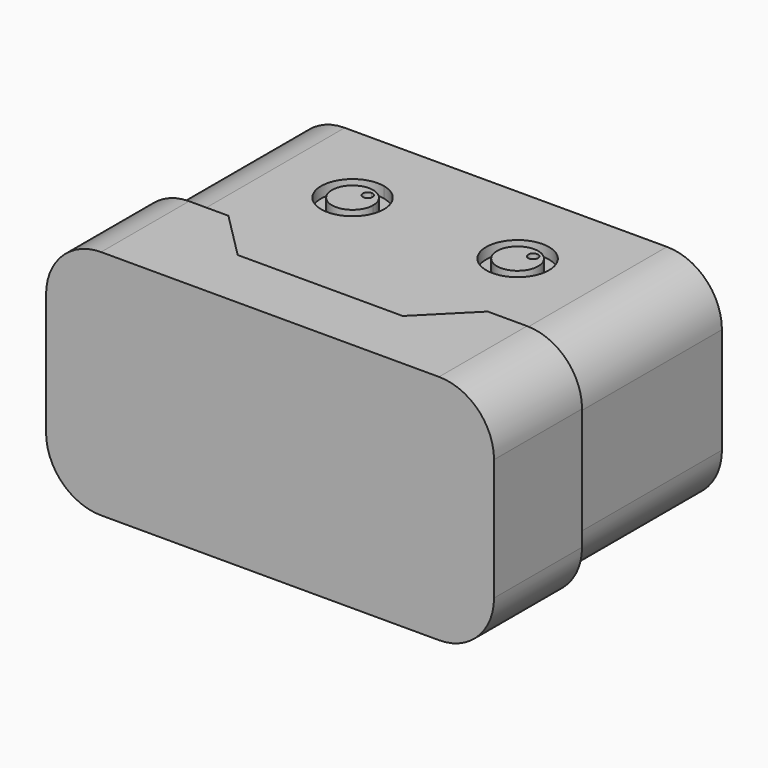
from build123d import *

# Parameters (mm, degrees)
F0_W      = 110
F0_H      = 75
F1_DEPTH  = 55
F3_DEPTH  = 2
F5_DEPTH  = 2
F6_W      = 112
F6_H      = 28
F7_DEPTH  = 2
F8_W      = 28
F8_H      = 59
F9_DEPTH  = 2
F10_R     = 14
F11_R     = 8
F11_R_2   = 5.25
F11_R_3   = 1.25
F12_DEPTH = 2.8


with BuildPart() as f1:
    # F0 (on Top) → F1 (new body)
    with BuildSketch(Plane.XY):
        Rectangle(F0_W, F0_H)
    extrude(amount=F1_DEPTH)

    # F2 (on face) → F3 (join)
    with BuildSketch(Plane.XY.offset(55)):
        Polygon((0, -21.541595), (0, -37.5), (55, -37.5), (55, -9.5), (33, -9.5), (21, -21.541595), align=None)
        Polygon((-33, -9.5), (-55, -9.5), (-55, -37.5), (0, -37.5), (0, -21.541595), (-21, -21.541595), align=None)
    extrude(amount=F3_DEPTH)

    # F4 (on face) → F5 (join)
    with BuildSketch(Plane.YZ.offset(55)):
        Polygon((-9.5, 0), (-9.5, 55), (-9.5, 57), (-37.5, 57), (-37.5, 0), align=None)
    extrude(amount=F5_DEPTH)

    # F6 (on face) → F7 (join)
    with BuildSketch(Plane(origin=(0, 0, 0), x_dir=(1, 0, 0), z_dir=(0, 0, -1))):
        with Locations((1, 23.5)):
            Rectangle(F6_W, F6_H)
    extrude(amount=F7_DEPTH)

    # F8 (on face) → F9 (join)
    with BuildSketch(Plane(origin=(-55, 0, 0), x_dir=(0, -1, 0), z_dir=(-1, 0, 0))):
        with Locations((23.5, 27.5)):
            Rectangle(F8_W, F8_H)
    extrude(amount=F9_DEPTH)

    # F10
    f10_edges = [f1.edges().sort_by_distance(p)[0] for p in [
        (-57, -23.5, 57),
        (-55, 14, 55),
        (57, -23.5, 57),
        (55, 14, 55),
        (57, -23.5, -2),
        (55, 14, 0),
        (-55, 14, 0),
        (-57, -23.5, -2),
    ]]
    fillet(f10_edges, radius=F10_R)

    # F11 (on face) → F12 (cut)
    with BuildSketch(Plane.XY.offset(55)):
        with BuildLine():
            ThreePointArc((-19.3, 22.817289), (-27.228965, 9.98004), (-13, 15))
            ThreePointArc((-13, 15), (-14.771035, 20.01996), (-19.3, 22.817289))
        make_face()
        with BuildLine():
            ThreePointArc((-15.75, 15), (-25.27127, 11.947337), (-19.3, 19.967142))
            ThreePointArc((-19.3, 19.967142), (-16.72873, 18.052663), (-15.75, 15))
        make_face(mode=Mode.SUBTRACT)
        with BuildLine():
            ThreePointArc((-18.05, 17.7), (-18.416117, 18.583883), (-19.3, 18.95))
            ThreePointArc((-19.3, 18.95), (-20.183883, 16.816117), (-18.05, 17.7))
        make_face()
        with Locations((21, 15)):
            Circle(F11_R)
        with Locations((21, 15)):
            Circle(F11_R_2, mode=Mode.SUBTRACT)
        with Locations((22.8, 17.7)):
            Circle(F11_R_3)
    extrude(amount=-F12_DEPTH, mode=Mode.SUBTRACT)

    # F13 (on Right) → F14 (revolve)
    with BuildSketch(Plane.YZ):
        with BuildLine():
            Line((37.5, 35), (37.5, 27.5))
            Line((37.5, 27.5), (61.365487, 27.5))
            Line((61.365487, 27.5), (66.5, 27.5))
            Line((66.5, 27.5), (70.365487, 27.5))
            ThreePointArc((70.365487, 27.5), (66.903148, 31.878728), (61.844038, 29.519393))
            ThreePointArc((61.844038, 29.519393), (61.363774, 29.057593), (60.7, 29))
            Line((60.7, 29), (37.5, 35))
        make_face()
    revolve(axis=Axis((0, 52, 27.5), (0, 1, 0)))


solid = f1.part
